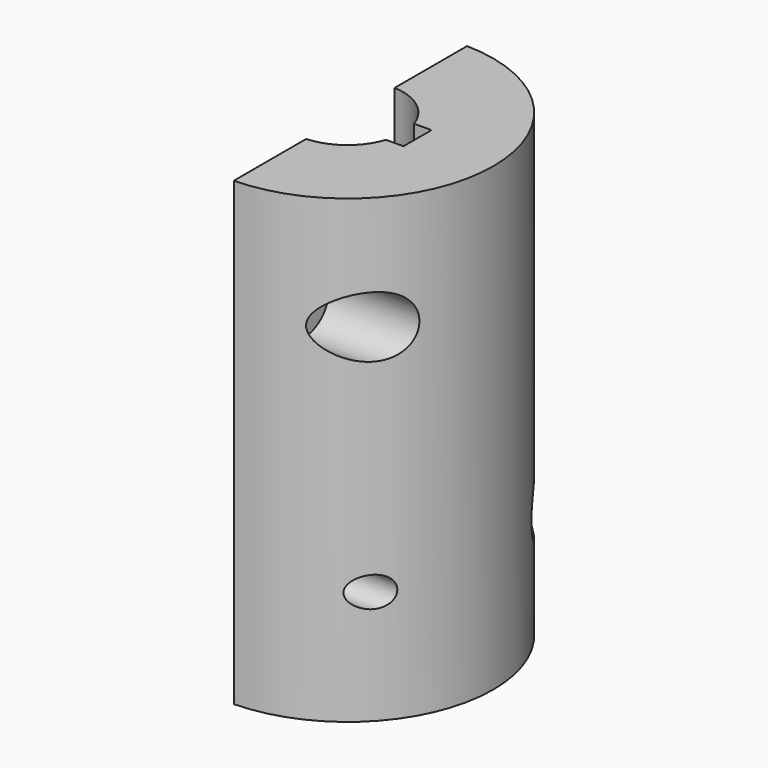
from build123d import *

# Parameters (mm, degrees)
F1_DEPTH = 79
F2_R     = 2.6
F3_DEPTH = 25.001
F6_DEPTH = 25
F7_W     = 6
F7_H     = 6
F8_DEPTH = 79.0010001


with BuildPart() as f1:
    # F0 (on Top) → F1 (new body)
    with BuildSketch(Plane.XY):
        with BuildLine():
            Line((0.5, -9.4868329805), (0.5, -24.9949994999))
            ThreePointArc((0.5, -24.9949994999), (25, 0), (0.5, 24.9949994999))
            Line((0.5, 24.9949994999), (0.5, 9.4868329805))
            ThreePointArc((0.5, 9.4868329805), (9.5, 0), (0.5, -9.4868329805))
        make_face()
    extrude(amount=F1_DEPTH)

    # F2 (on Right) → F3 (cut, through all)
    with BuildSketch(Plane.YZ):
        with Locations((-17.25, 19.5)):
            Circle(F2_R)
        with Locations((-17.25, 59.5)):
            Circle(F2_R)
        with Locations((17.25, 59.5)):
            Circle(F2_R)
        with Locations((17.25, 19.5)):
            Circle(F2_R)
    extrude(amount=F3_DEPTH, mode=Mode.SUBTRACT)

    # F5 (on offset) → F6 (cut)
    with BuildSketch(Plane(origin=(6.5, 0, 0), x_dir=(0, -1, 0), z_dir=(-1, 0, 0))):
        with BuildLine():
            ThreePointArc((12, 59.5), (17.25, 54.25), (22.5, 59.5))
            ThreePointArc((22.5, 59.5), (17.25, 64.75), (12, 59.5))
        make_face()
        with BuildLine():
            ThreePointArc((-12, 19.5), (-13.5376893988, 23.2123106012), (-17.25, 24.75))
            ThreePointArc((-17.25, 24.75), (-20.9623106012, 15.7876893988), (-12, 19.5))
        make_face()
    extrude(amount=-F6_DEPTH, mode=Mode.SUBTRACT)

    # F7 (on Top) → F8 (cut, through all)
    with BuildSketch(Plane.XY):
        with Locations((9, 0)):
            Rectangle(F7_W, F7_H)
    extrude(amount=F8_DEPTH, mode=Mode.SUBTRACT)


solid = f1.part
